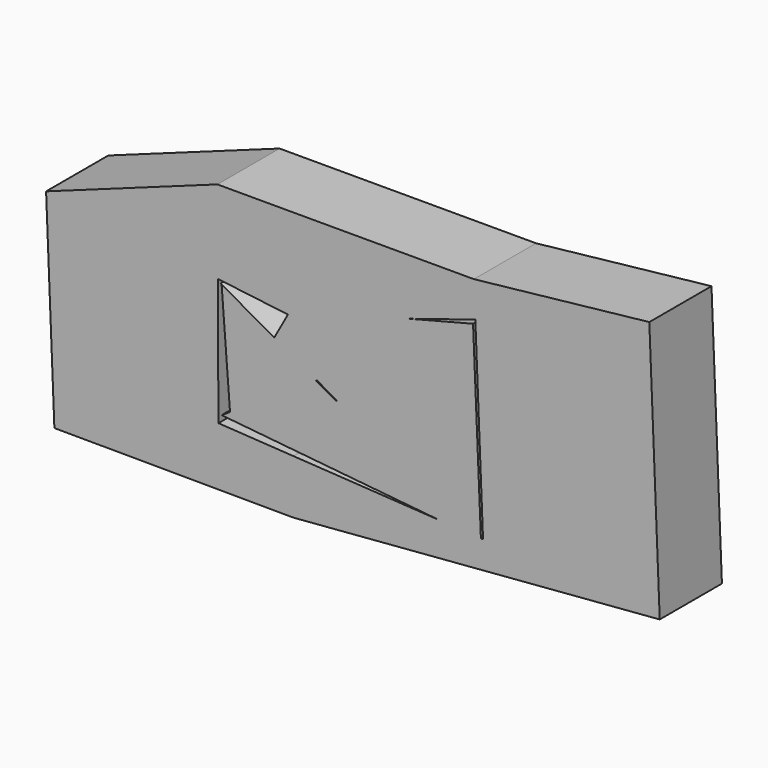
from build123d import *

# Parameters (mm, degrees)
F1_DEPTH = 25
F3_DEPTH = 25


with BuildPart() as f1:
    # F0 (on Front) → F1 (new body)
    with BuildSketch(Plane.XZ):
        Polygon((33.0978296697, 38.8043485582), (-49.4021736085, 38.8043485582), (-49.2731857154, 12.1037618477), (-25.1532122493, 9.1304350644), (33.5542415281, 27.495480626), align=None)
        Polygon((-49.2731857154, 12.1037618477), (-49.4021736085, 38.8043485582), (-104.5108735561, 18.9130436629), align=None)
        Polygon((89.5108729601, 45.0000055134), (33.0978296697, 38.8043485582), (33.5542415281, 27.495480626), align=None)
        Polygon((-49.0760877728, -28.695654124), (-49.2731857154, 12.1037618477), (-104.5108735561, 18.9130436629), (-101.8409921534, -47.240662964), align=None)
        Polygon((89.5108729601, 45.0000055134), (33.5542415281, 27.495480626), (36.0326133668, -33.9130461216), (92.865576452, -38.1220651508), align=None)
        Polygon((-24.9633372304, -30.1738305036), (-49.0760877728, -28.695654124), (-101.8409921534, -47.240662964), (-24.879160547, -47.5984645456), align=None)
        Polygon((92.865576452, -38.1220651508), (36.0326133668, -33.9130461216), (-24.9633372304, -30.1738305036), (-24.879160547, -47.5984645456), align=None)
    extrude(amount=F1_DEPTH)

    # F2 (on Front) → F3 (join)
    with BuildSketch(Plane.XZ):
        Polygon((-31.1042628838, 1.4038610143), (-48.3769960701, 11.0869575292), (-48.0509102345, 10.9010313829), (-31.1738188355, 1.2781277766), align=None)
        Polygon((-31.1738188355, 1.2781277766), (-48.0509102345, 10.9010313829), (-45.3473362203, -24.3427168298), align=None)
        Polygon((-25.7475488917, 11.0869575292), (-31.1042628838, 1.4038610143), (-17.3722774356, -6.294291849), (32.81866014, 26.0869581252), align=None)
        Polygon((-17.3722774356, -6.294291849), (-31.1042628838, 1.4038610143), (-31.1738188355, 1.2781277766), (-17.616556065, -6.4518909643), align=None)
        Polygon((-17.616556065, -6.4518909643), (-31.1738188355, 1.2781277766), (-45.3473362203, -24.3427168298), align=None)
        Polygon((-17.616556065, -6.4518909643), (-45.3473362203, -24.3427168298), (-48.0509102345, -26.0869581252), (-13.2775347304, -8.9258945152), align=None)
        Polygon((32.81866014, 26.0869581252), (-17.3722774356, -6.294291849), (-10.9456736694, -9.8970467725), align=None)
        Polygon((-13.2775347304, -8.9258945152), (-48.0509102345, -26.0869581252), (32.1549837153, -34.0592810181), (-11.1774851915, -10.087647342), (-11.203084141, -10.1086953655), align=None)
        Polygon((32.1549837153, -34.0592810181), (-10.9456736694, -9.8970467725), (-11.1774851915, -10.087647342), align=None)
        Polygon((32.81866014, 26.0869581252), (-10.9456736694, -9.8970467725), (32.1549837153, -34.0592810181), (35.4273542762, -35.8695648611), align=None)
    extrude(amount=F3_DEPTH)


solid = f1.part
